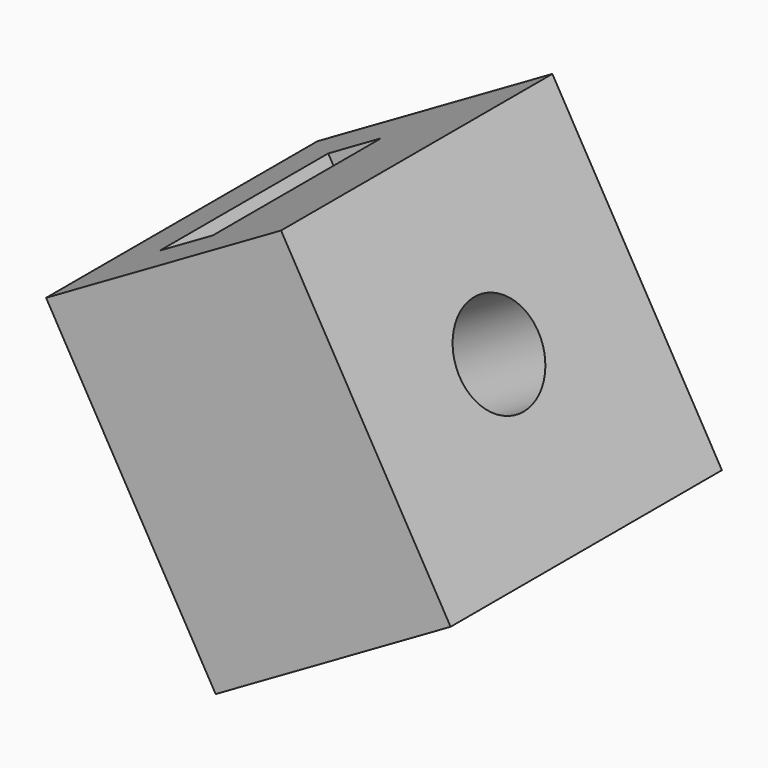
from build123d import *

# Parameters (mm, degrees)
SKETCH038_W             = 10
SKETCH038_H             = 10
PAD014_DEPTH            = 8
SKETCH039_R             = 1.45
POCKET009_DEPTH         = 5
SKETCH040_W             = 6.2
SKETCH040_H             = 1.8
POCKET010_DEPTH         = 15
BODY014_PLACEMENT_ANGLE = 60


with BuildPart() as part:
    # Sketch038 → Pad014 (new body)
    with BuildSketch(Plane.XY):
        with Locations((0.72243, -0.901424)):
            Rectangle(SKETCH038_W, SKETCH038_H)
    extrude(amount=PAD014_DEPTH)

    # Sketch039 (on Face6 of Pad014) → Pocket009 (cut)
    with BuildSketch(Plane.XY.offset(8)):
        with Locations((0.772802, -1.024983)):
            Circle(SKETCH039_R)
    extrude(amount=-POCKET009_DEPTH, mode=Mode.SUBTRACT)

    # Sketch040 (on Face2 of Pocket009) → Pocket010 (cut)
    with BuildSketch(Plane(origin=(-4.27757, 0, 0), x_dir=(0, -1, 0), z_dir=(-1, 0, 0))):
        with Locations((0.940135, 3.059345)):
            Rectangle(SKETCH040_W, SKETCH040_H)
    extrude(amount=-POCKET010_DEPTH, mode=Mode.SUBTRACT)


with BuildPart() as part_1:
    # Body014 placement: moved
    add(part.part.moved(Location((43.303848, 29, 26.401924))).rotate(Axis((43.303848, 29, 26.401924), (0, 1, 0)), BODY014_PLACEMENT_ANGLE))


solid = part_1.part
